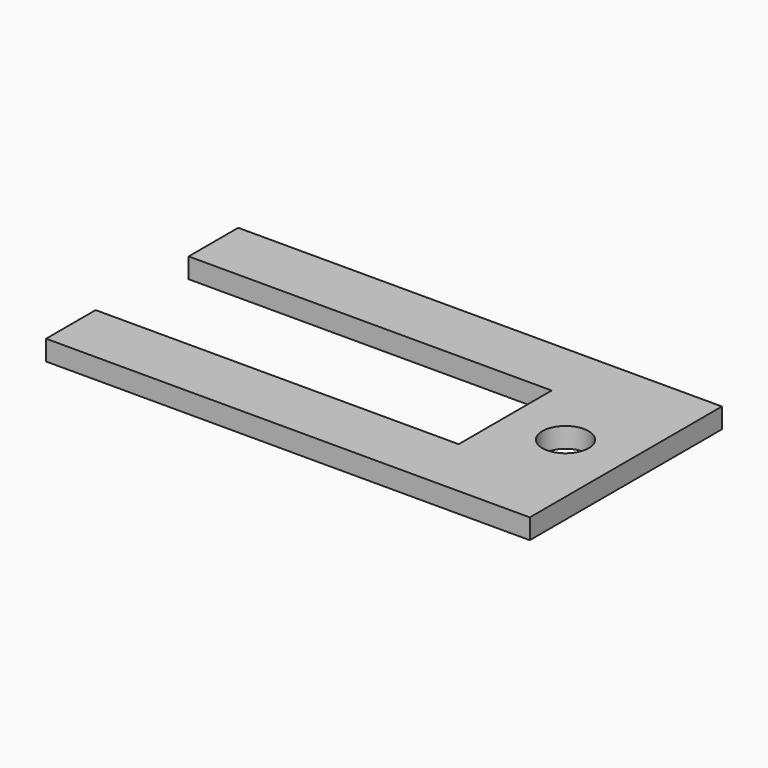
from build123d import *

# Parameters (mm, degrees)
F0_R     = 2.921
F1_DEPTH = 1.27


with BuildPart() as f1:
    # F0 (on Top) → F1 (new body, symmetric)
    with BuildSketch(Plane.XY):
        Polygon((30.5435, -15.1638), (30.5435, 15.1638), (-30.5435, 15.1638), (-30.5435, 7.3406), (15.3035, 7.3406), (15.3035, -7.3406), (-30.5435, -7.3406), (-30.5435, -15.1638), align=None)
        with Locations((22.9235, 0)):
            Circle(F0_R, mode=Mode.SUBTRACT)
    extrude(amount=F1_DEPTH, both=True)


solid = f1.part
